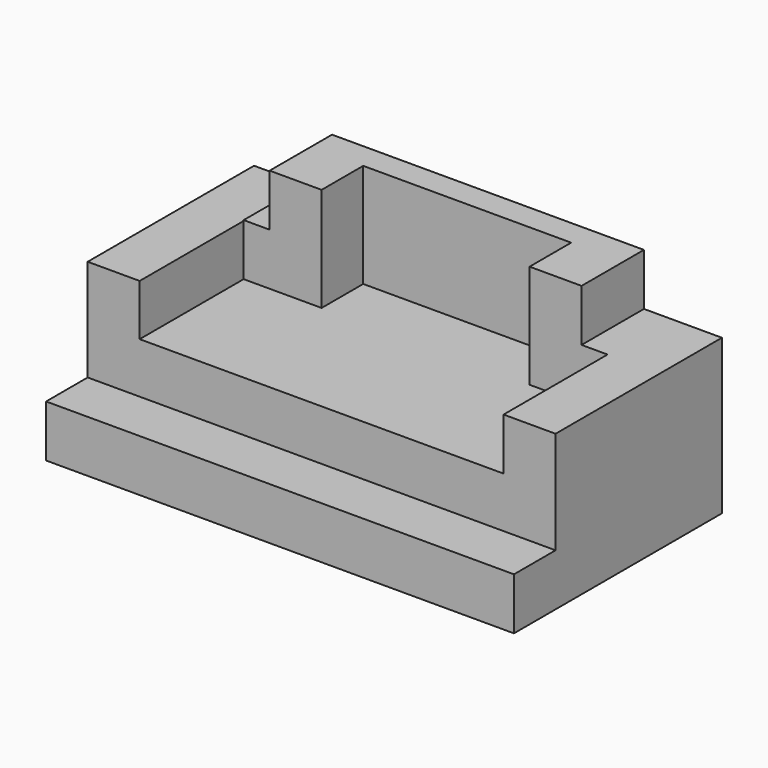
from build123d import *

# Parameters (mm, degrees)
F0_W      = 63.5
F0_H      = 12.7
F1_DEPTH  = 114.3
F2_W      = 50.8
F2_H      = 12.7
F3_DEPTH  = 114.3
F6_W      = 12.7
F6_H      = 12.7
F7_DEPTH  = 50.8
F8_W      = 12.7
F8_H      = 12.7
F9_DEPTH  = 50.8
F10_W     = 6.35
F10_H     = 12.7
F11_DEPTH = 19.05
F12_DEPTH = 19.05
F13_W     = 50.8
F13_H     = 6.35
F14_DEPTH = 25.4


with BuildPart() as f1:
    # F0 (on Right) → F1 (new body)
    with BuildSketch(Plane.YZ):
        with Locations((-31.75, 6.35)):
            Rectangle(F0_W, F0_H)
    extrude(amount=F1_DEPTH)

    # F2 (on Right) → F3 (join)
    with BuildSketch(Plane.YZ):
        with Locations((-25.4, 18.7161865272)):
            Rectangle(F2_W, F2_H)
    extrude(amount=F3_DEPTH)

    # F6 (on offset) → F7 (join)
    with BuildSketch(Plane.XZ.offset(50.8)):
        with Locations((6.35, 31.2356372522)):
            Rectangle(F6_W, F6_H)
    extrude(amount=-F7_DEPTH)

    # F8 (on face) → F9 (join)
    with BuildSketch(Plane.XZ.offset(50.8)):
        with Locations((107.95, 31.4161865272)):
            Rectangle(F8_W, F8_H)
    extrude(amount=-F9_DEPTH)

    # F10 (on face) → F11 (join)
    with BuildSketch(Plane(origin=(0, 0, 0), x_dir=(-1, 0, 0), z_dir=(0, 1, 0))):
        with Locations((-98.425, 31.4161865272)):
            Rectangle(F10_W, F10_H)
        with Locations((-15.875, 31.4161865272)):
            Rectangle(F10_W, F10_H)
    extrude(amount=-F11_DEPTH)

    # F10 (on face) → F12 (join)
    with BuildSketch(Plane(origin=(0, 0, 0), x_dir=(-1, 0, 0), z_dir=(0, 1, 0))):
        with Locations((-98.425, 31.4161865272)):
            Rectangle(F10_W, F10_H)
        with Locations((-15.875, 31.4161865272)):
            Rectangle(F10_W, F10_H)
    extrude(amount=-F12_DEPTH)

    # F13 (on face) → F14 (join)
    with BuildSketch(Plane.XY.offset(25.0661865272)):
        Polygon((31.75, 0), (19.05, 0), (19.05, -19.05), (31.75, -19.05), (31.75, -6.35), align=None)
        with Locations((57.15, -3.175)):
            Rectangle(F13_W, F13_H)
        Polygon((95.25, 0), (82.55, 0), (82.55, -6.35), (82.55, -19.05), (95.25, -19.05), align=None)
    extrude(amount=F14_DEPTH)


solid = f1.part
